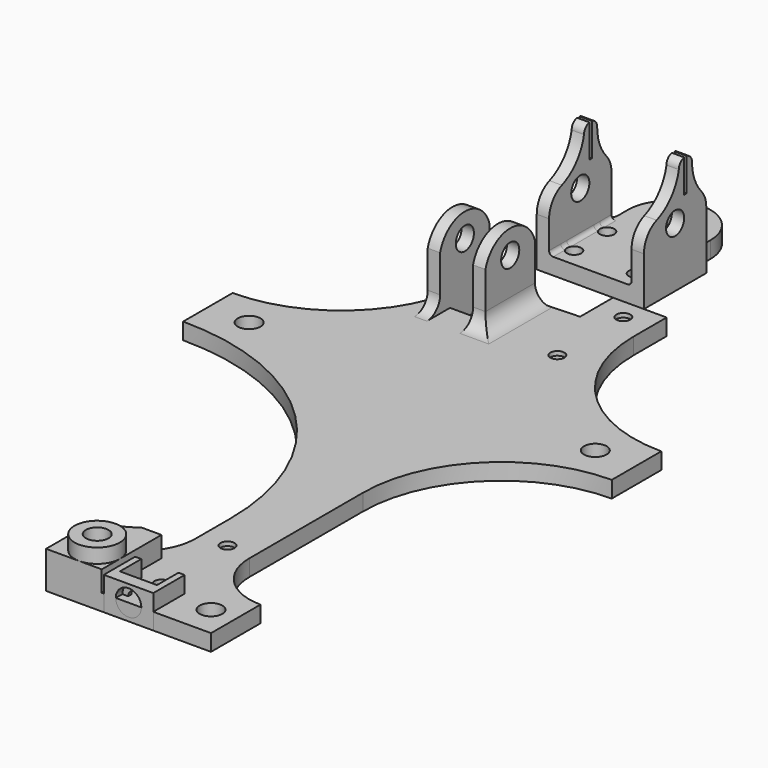
from build123d import *

# Parameters (mm, degrees)
SKETCH_R            = 2.75
PAD_DEPTH           = 4
SKETCH001_R         = 2.75
PAD001_DEPTH        = 3
CLONE2D_R           = 2.75
PAD002_DEPTH        = 3
PAD004_DEPTH        = 5
SKETCH002_R         = 5.5
PAD003_DEPTH        = 12.5
HOLE_D              = 5.5
HOLE_CBORE_D        = 10
HOLE_CBORE_DEPTH    = 5.5
HOLE001_D           = 3.4
HOLE001_DEPTH       = 25
HOLE001_CBORE_D     = 6.1
HOLE001_CBORE_DEPTH = 3
FILLET003_R         = 4
SKETCH007_R         = 2.5
SKETCH007_R_2       = 1.75
PAD006_DEPTH        = 4
SKETCH008_R         = 2.75
PAD007_DEPTH        = 3
CLONE2D001_R        = 2.75
PAD008_DEPTH        = 3
FILLET_R            = 1
FILLET004_R         = 2
FILLET005_R         = 6
PAD005_DEPTH        = 8
HOLE002_D           = 3.4
HOLE002_DEPTH       = 25
HOLE002_CBORE_D     = 6.2
HOLE002_CBORE_DEPTH = 2


with BuildPart() as base:
    # Sketch → Pad (new body)
    with BuildSketch(Plane.XY):
        with BuildLine():
            Line((20, 0), (20, 15))
            ThreePointArc((6.5, 28.5), (10.454058, 18.954058), (20, 15))
            Line((6.5, 28.5), (6.5, 63))
            ThreePointArc((40, 96.5), (16.311923, 86.688077), (6.5, 63))
            Line((40, 111.5), (40, 96.5))
            ThreePointArc((6.5, 145), (16.311923, 121.311923), (40, 111.5))
            Line((6.5, 145), (6.5, 155))
            Line((6.5, 155), (-6.5, 155))
            Line((-6.5, 155), (-6.5, 145))
            Line((-20, 144.453673), (-6.5, 145))
            Line((-20, 144.453673), (-20, 132.453673))
            Line((-20, 132.453673), (-28, 132.453673))
            Line((-28, 132.453673), (-28, 144.453673))
            Line((-28, 144.453673), (-31, 144.453673))
            ThreePointArc((-63.953673, 111.5), (-40.651907, 121.151907), (-31, 144.453673))
            Line((-63.953673, 111.5), (-63.953673, 96.5))
            ThreePointArc((-6.5, 39.046327), (-23.327791, 79.672209), (-63.953673, 96.5))
            Line((-6.5, 28.5), (-6.5, 39.046327))
            ThreePointArc((-20, 15), (-10.454058, 18.954058), (-6.5, 28.5))
            Line((-20, 15), (-20, 0))
            Line((-20, 0), (20, 0))
        make_face()
        with Locations((-53.953673, 104)):
            Circle(SKETCH_R, mode=Mode.SUBTRACT)
        with Locations((30, 104)):
            Circle(SKETCH_R, mode=Mode.SUBTRACT)
        with Locations((14, 7.5)):
            Circle(SKETCH_R, mode=Mode.SUBTRACT)
    extrude(amount=PAD_DEPTH)

    # Sketch001 → Pad001 (join)
    with BuildSketch(Plane.YZ.offset(-28)):
        with BuildLine():
            Line((144.453673, 4), (144.453673, 17))
            ThreePointArc((144.453673, 17), (136.953673, 22.75), (129.453673, 17))
            Line((129.453673, 17), (129.453673, 4))
            Line((129.453673, 4), (144.453673, 4))
        make_face()
        with Locations((136.953673, 17)):
            Circle(SKETCH001_R, mode=Mode.SUBTRACT)
    extrude(amount=-PAD001_DEPTH)

    # Clone2D → Pad002 (join)
    with BuildSketch(Plane.YZ.offset(-20)):
        with BuildLine():
            Line((144.453673, 4), (144.453673, 17))
            ThreePointArc((144.453673, 17), (136.953673, 22.75), (129.453673, 17))
            Line((129.453673, 17), (129.453673, 4))
            Line((129.453673, 4), (144.453673, 4))
        make_face()
        with Locations((136.953673, 17)):
            Circle(CLONE2D_R, mode=Mode.SUBTRACT)
    extrude(amount=PAD002_DEPTH)

    # Sketch003 (on Face5 of Pad002) → Pad004 (join)
    with BuildSketch(Plane.XY.offset(4)):
        with BuildLine():
            Line((-20, 0), (-20, 15))
            ThreePointArc((-20, 15), (-15.425684, 15.798597), (-11.392559, 18.099906))
            Line((-11.392559, 18.099906), (-6.5, 18.099906))
            Line((-6.5, 18.099906), (-6.5, 0))
            Line((-6.5, 0), (-20, 0))
        make_face()
    extrude(amount=PAD004_DEPTH)

    # Sketch002 → Pad003 (join)
    with BuildSketch(Plane.XY):
        with Locations((-12, 5.5)):
            Circle(SKETCH002_R)
    extrude(amount=PAD003_DEPTH)

    # Hole (through all)
    with Locations(Plane(origin=(0, 0, 0), x_dir=(1, 0, 0), z_dir=(0, 0, -1))):
        with Locations((-12, -5.5)):
            CounterBoreHole(HOLE_D / 2, HOLE_CBORE_D / 2, HOLE_CBORE_DEPTH)

    # Hole001
    with Locations(Plane(origin=(0, 0, 0), x_dir=(1, 0, 0), z_dir=(0, 0, -1))):
        with Locations((0, -10), (0, -130), (0, -30), (0, -150)):
            CounterBoreHole(HOLE001_D / 2, HOLE001_CBORE_D / 2, HOLE001_CBORE_DEPTH, depth=HOLE001_DEPTH)

    # Fillet003
    fillet003_edges = [base.edges().sort_by_distance(p)[0] for p in [
        (-29.5, 129.453673, 4),
        (-18.5, 129.453673, 4),
        (-17, 136.953673, 4),
    ]]
    fillet(fillet003_edges, radius=FILLET003_R)


with BuildPart() as obj1:
    # Sketch007 → Pad006 (new body)
    with BuildSketch(Plane.XY):
        with BuildLine():
            Line((-10, 0), (10, 0))
            Line((10, 0), (10, 23.9))
            ThreePointArc((10, 23.9), (0, 33.9), (-10, 23.9))
            Line((-10, 23.9), (-10, 0))
        make_face()
        with Locations((0, 26.4)):
            Circle(SKETCH007_R, mode=Mode.SUBTRACT)
        with Locations((-7.5, 4.45)):
            Circle(SKETCH007_R_2, mode=Mode.SUBTRACT)
        with Locations((7.5, 4.45)):
            Circle(SKETCH007_R_2, mode=Mode.SUBTRACT)
        with Locations((7.5, 14.45)):
            Circle(SKETCH007_R_2, mode=Mode.SUBTRACT)
        with Locations((-7.5, 14.45)):
            Circle(SKETCH007_R_2, mode=Mode.SUBTRACT)
    extrude(amount=PAD006_DEPTH)

    # Sketch008 (on Face2 of Pad006) → Pad007 (join)
    with BuildSketch(Plane.YZ.offset(10)):
        with BuildLine():
            Line((18.9, 0), (18.9, 16.690733))
            ThreePointArc((14.575, 25.472607), (15.714895, 20.578045), (18.9, 16.690733))
            ThreePointArc((14.575, 25.472607), (14.116104, 26.747362), (12.95, 27.437136))
            Line((12.95, 19.437136), (12.95, 27.437136))
            Line((12.2, 19.437136), (12.95, 19.437136))
            Line((12.2, 27.437136), (12.2, 19.437136))
            ThreePointArc((12.2, 27.437136), (11.033896, 26.747362), (10.575, 25.472607))
            ThreePointArc((0, 16.690733), (6.87299, 19.172447), (10.575, 25.472607))
            Line((0, 16.690733), (0, 0))
            Line((0, 0), (18.9, 0))
        make_face()
        with Locations((9.45, 14.5)):
            Circle(SKETCH008_R, mode=Mode.SUBTRACT)
    extrude(amount=PAD007_DEPTH)

    # Clone2D001 (on Face3 of Pad007) → Pad008 (join)
    with BuildSketch(Plane.YZ.offset(-10)):
        with BuildLine():
            Line((0, 16.690733), (0, 0))
            Line((0, 0), (18.9, 0))
            Line((18.9, 0), (18.9, 16.690733))
            ThreePointArc((18.9, 16.690733), (15.714895, 20.578045), (14.575, 25.472607))
            ThreePointArc((14.575, 25.472607), (14.116104, 26.747362), (12.95, 27.437136))
            Line((12.95, 27.437136), (12.95, 19.437136))
            Line((12.95, 19.437136), (12.2, 19.437136))
            Line((12.2, 19.437136), (12.2, 27.437136))
            ThreePointArc((12.2, 27.437136), (11.033896, 26.747362), (10.575, 25.472607))
            ThreePointArc((10.575, 25.472607), (6.87299, 19.172447), (0, 16.690733))
        make_face()
        with Locations((9.45, 14.5)):
            Circle(CLONE2D001_R, mode=Mode.SUBTRACT)
    extrude(amount=-PAD008_DEPTH)

    # Fillet
    fillet_edges = [obj1.edges().sort_by_distance(p)[0] for p in [
        (10, 9.45, 4),
        (-10, 9.45, 4),
    ]]
    fillet(fillet_edges, radius=FILLET_R)

    # Fillet004
    fillet004_edges = [obj1.edges().sort_by_distance(p)[0] for p in [
        (-10, 18.9, 2),
        (10, 18.9, 2),
    ]]
    fillet(fillet004_edges, radius=FILLET004_R)

    # Fillet005
    fillet005_edges = [obj1.edges().sort_by_distance(p)[0] for p in [
        (11.5, 0, 16.690733),
        (-11.5, 0, 16.690733),
        (-11.5, 18.9, 16.690733),
        (11.5, 18.9, 16.690733),
    ]]
    fillet(fillet005_edges, radius=FILLET005_R)


with BuildPart() as obj1_1:
    # Body001 placement: moved
    add(obj1.part.moved(Location((0, 140, 14))))


with BuildPart() as clamp:
    # Sketch005 → Pad005 (new body)
    with BuildSketch(Plane.XY):
        Polygon((-6, 9.5), (-6, 0), (6, 0), (6, 9.5), (4.5, 9.5), (4.5, 3), (-4.5, 3), (-4.5, 9.5), align=None)
    extrude(amount=PAD005_DEPTH)

    # Hole002
    with Locations(Plane.XZ):
        with Locations((0, 4)):
            CounterBoreHole(HOLE002_D / 2, HOLE002_CBORE_D / 2, HOLE002_CBORE_DEPTH, depth=HOLE002_DEPTH)


solid = Compound([base.part, obj1_1.part, clamp.part])
